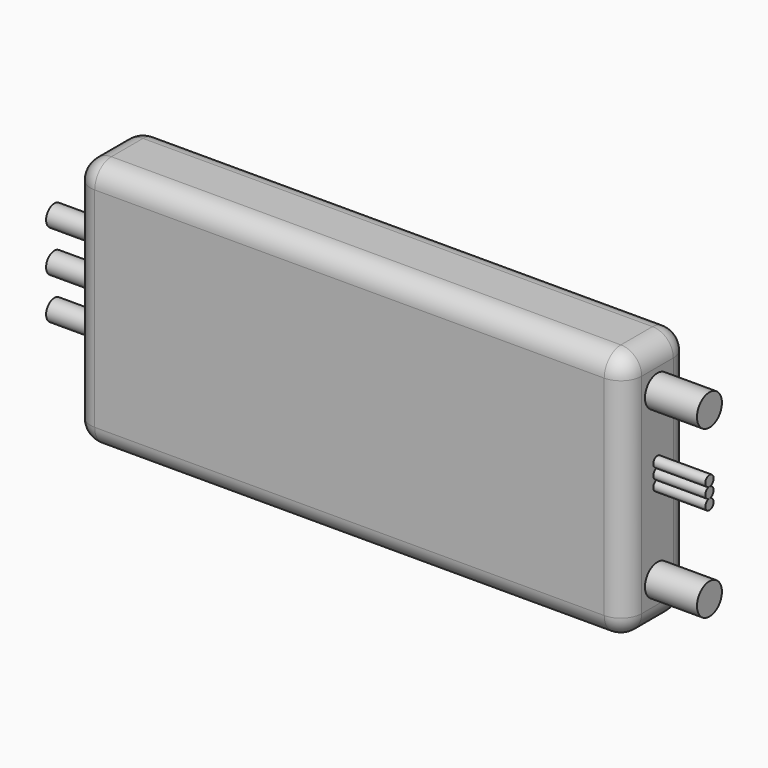
from build123d import *

# Parameters (mm, degrees)
F0_W     = 53
F0_H     = 24.1
F1_DEPTH = 7.8
F2_R     = 2
F3_R     = 1
F4_DEPTH = 5
F5_R     = 1.5
F6_DEPTH = 5


with BuildPart() as f1:
    # F0 (on Front) → F1 (new body)
    with BuildSketch(Plane.XZ):
        with Locations((26.5, 12.05)):
            Rectangle(F0_W, F0_H)
    extrude(amount=F1_DEPTH)

    # F2
    f2_edges = [f1.edges().sort_by_distance(p)[0] for p in [
        (53, -3.9, 0),
        (0, -3.9, 24.1),
        (53, -3.9, 24.1),
        (0, -3.9, 0),
        (26.5, 0, 0),
        (26.5, -7.8, 0),
        (26.5, 0, 24.1),
        (26.5, -7.8, 24.1),
        (0, 0, 12.05),
        (0, -7.8, 12.05),
        (53, 0, 12.05),
        (53, -7.8, 12.05),
    ]]
    fillet(f2_edges, radius=F2_R)


with BuildPart() as f4:
    # F3 (on face) → F4 (new body)
    with BuildSketch(Plane(origin=(0, 0, 0), x_dir=(0, -1, 0), z_dir=(-1, 0, 0))):
        with Locations((3.9, 16.1)):
            Circle(F3_R)
        with Locations((3.9, 12.1)):
            Circle(F3_R)
        with Locations((3.9, 8.1)):
            Circle(F3_R)
    extrude(amount=F4_DEPTH)


with BuildPart() as f6:
    # F5 (on face) → F6 (new body)
    with BuildSketch(Plane.YZ.offset(53)):
        with Locations((-3.9, 20.1)):
            Circle(F5_R)
        with BuildLine():
            ThreePointArc((-3.9, 13.6), (-3.546447, 13.746447), (-3.4, 14.1))
            ThreePointArc((-3.4, 14.1), (-4.253553, 14.453553), (-3.9, 13.6))
        make_face()
        with BuildLine():
            ThreePointArc((-3.4, 13.1), (-3.546447, 13.453553), (-3.9, 13.6))
            ThreePointArc((-3.9, 13.6), (-4.4, 13.1), (-3.9, 12.6))
            ThreePointArc((-3.9, 12.6), (-3.546447, 12.746447), (-3.4, 13.1))
        make_face()
        with BuildLine():
            ThreePointArc((-3.4, 12.1), (-3.546447, 12.453553), (-3.9, 12.6))
            ThreePointArc((-3.9, 12.6), (-4.253553, 11.746447), (-3.4, 12.1))
        make_face()
        with Locations((-3.9, 4.1)):
            Circle(F5_R)
    extrude(amount=F6_DEPTH)


solid = Compound([f1.part, f4.part, f6.part])
